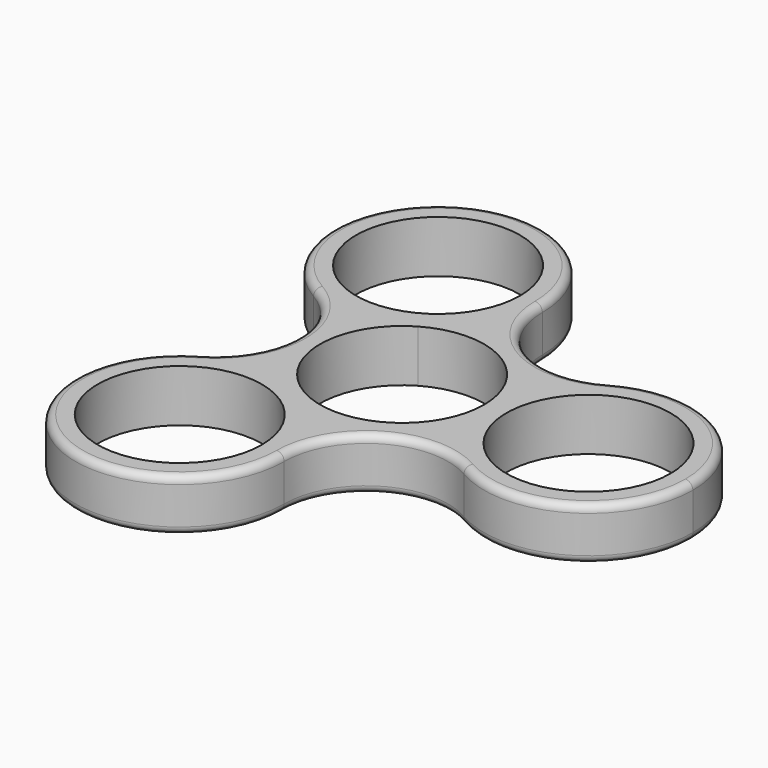
from build123d import *

# Parameters (mm, degrees)
F0_R     = 11
F1_DEPTH = 7
F2_R     = 1


with BuildPart() as f1:
    # F0 (on Top) → F1 (new body)
    with BuildSketch(Plane.XY):
        with BuildLine():
            ThreePointArc((1.5, -21.6506350946), (-0.3756442104, -14.6506353313), (-5.4999995267, -9.5262797149))
            ThreePointArc((-5.4999995267, -9.5262797149), (-12.4999997267, -7.6506350946), (-19.5, -9.5262794416))
            ThreePointArc((-19.5, -9.5262794416), (-19.5, -33.7749907476), (1.5, -21.6506350946))
        make_face()
        with Locations((-12.5, -21.6506350946)):
            Circle(F0_R, mode=Mode.SUBTRACT)
        with BuildLine():
            ThreePointArc((-5.4999995267, -9.5262797149), (-11, -4.69e-08), (-5.4999996078, 9.526279668))
            ThreePointArc((-5.4999996078, 9.526279668), (-12.4999997736, 7.6506350946), (-19.5, 9.5262794416))
            ThreePointArc((-19.5, 9.5262794416), (-14, 0), (-19.5, -9.5262794416))
            ThreePointArc((-19.5, -9.5262794416), (-12.4999997267, -7.6506350946), (-5.4999995267, -9.5262797149))
        make_face()
        with BuildLine():
            ThreePointArc((18, -12.124355653), (12.875644347, -7), (11, 0))
            ThreePointArc((11, 0), (5.5000002367, -9.526279305), (-5.4999995267, -9.5262797149))
            ThreePointArc((-5.4999995267, -9.5262797149), (-0.3756442104, -14.6506353313), (1.5, -21.6506350946))
            ThreePointArc((1.5, -21.6506350946), (7, -12.124355653), (18, -12.124355653))
        make_face()
        with BuildLine():
            ThreePointArc((18, 12.124355653), (12.875644347, 7), (11, 0))
            ThreePointArc((11, 0), (12.875644347, -7), (18, -12.124355653))
            ThreePointArc((18, -12.124355653), (32, -12.124355653), (39, 0))
            ThreePointArc((39, 0), (32, 12.124355653), (18, 12.124355653))
        make_face()
        with Locations((25, 0)):
            Circle(F0_R, mode=Mode.SUBTRACT)
        with BuildLine():
            ThreePointArc((-5.4999996078, 9.526279668), (5.5000001961, 9.5262793284), (11, 0))
            ThreePointArc((11, 0), (12.875644347, 7), (18, 12.124355653))
            ThreePointArc((18, 12.124355653), (7, 12.124355653), (1.5, 21.6506350946))
            ThreePointArc((1.5, 21.6506350946), (-0.3756442338, 14.6506352907), (-5.4999996078, 9.526279668))
        make_face()
        with BuildLine():
            ThreePointArc((-19.5, 9.5262794416), (-12.4999997736, 7.6506350946), (-5.4999996078, 9.526279668))
            ThreePointArc((-5.4999996078, 9.526279668), (-0.3756442338, 14.6506352907), (1.5, 21.6506350946))
            ThreePointArc((1.5, 21.6506350946), (-19.5, 33.7749907476), (-19.5, 9.5262794416))
        make_face()
        with Locations((-12.5, 21.6506350946)):
            Circle(F0_R, mode=Mode.SUBTRACT)
    extrude(amount=F1_DEPTH)

    # F2
    f2_edges = [f1.edges().sort_by_distance(p)[0] for p in [
        (7, -12.124356, 7),
        (-19.5, -33.774991, 7),
        (-14, 0, 7),
        (-19.5, 33.774991, 7),
        (7, 12.124356, 7),
        (39, 0, 7),
        (7, -12.124356, 0),
        (-19.5, -33.774991, 0),
        (39, 0, 0),
        (-14, 0, 0),
        (-19.5, 33.774991, 0),
        (7, 12.124356, 0),
    ]]
    fillet(f2_edges, radius=F2_R)


solid = f1.part
